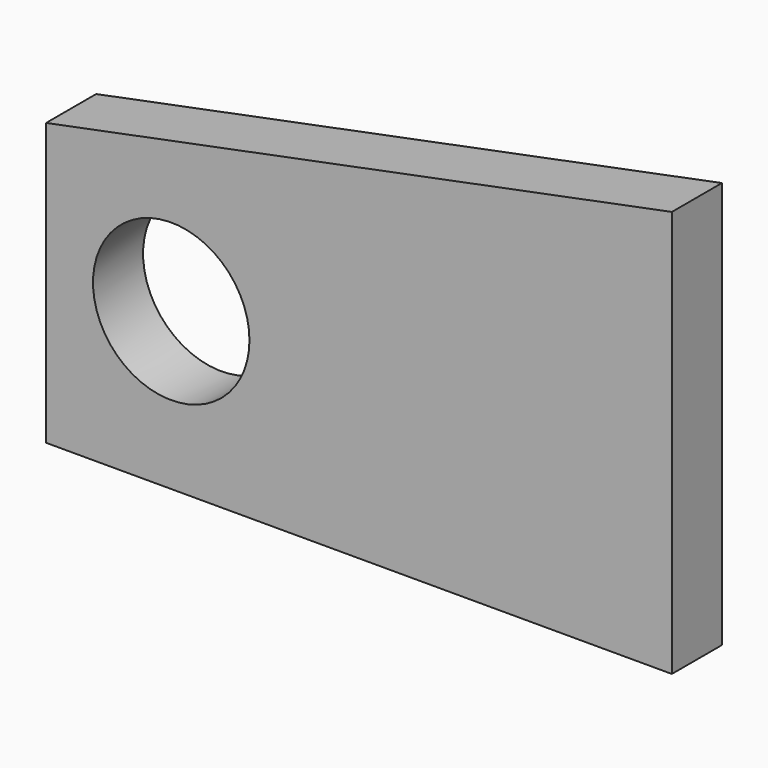
from build123d import *

# Parameters (mm, degrees)
F0_R     = 7.9375
F1_DEPTH = 6.35


with BuildPart() as f1:
    # F0 (on Front) → F1 (new body)
    with BuildSketch(Plane.XZ):
        Polygon((63.5, 0), (63.5, 41.275), (0, 28.575), (0, 0), align=None)
        with Locations((12.7, 15.875)):
            Circle(F0_R, mode=Mode.SUBTRACT)
    extrude(amount=-F1_DEPTH)


solid = f1.part
